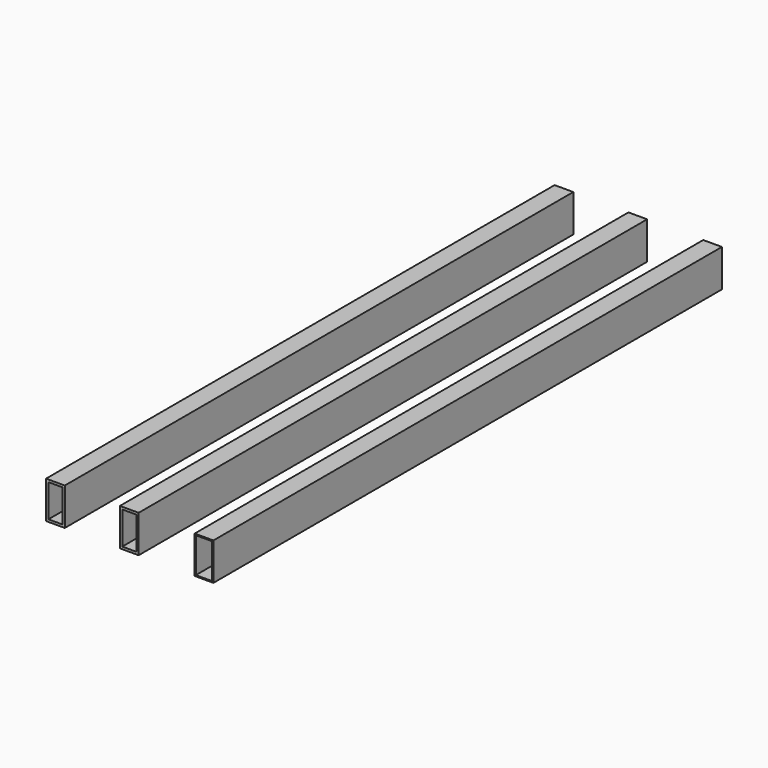
from build123d import *

# Parameters (mm, degrees)
REFINELINEAREXTRUDE001_W         = 50.8
REFINELINEAREXTRUDE001_H         = 25.4
REFINELINEAREXTRUDE001_W_2       = 44.45
REFINELINEAREXTRUDE001_H_2       = 19.05
LINEAREXTRUDE001_DEPTH           = 863.6
LINEAREXTRUDE001_PLACEMENT_ANGLE = 90
REFINELINEAREXTRUDE002_W         = 50.8
REFINELINEAREXTRUDE002_H         = 25.4
REFINELINEAREXTRUDE002_W_2       = 47.625
REFINELINEAREXTRUDE002_H_2       = 22.225
LINEAREXTRUDE002_DEPTH           = 863.6
LINEAREXTRUDE002_PLACEMENT_ANGLE = 90
REFINELINEAREXTRUDE_W            = 50.8
REFINELINEAREXTRUDE_H            = 25.4
REFINELINEAREXTRUDE_W_2          = 44.45
REFINELINEAREXTRUDE_H_2          = 19.05
LINEAREXTRUDE_DEPTH              = 863.6
LINEAREXTRUDE_PLACEMENT_ANGLE    = 90


with BuildPart() as linearextrude001:
    # RefineLinearExtrude001 → LinearExtrude001 (new body)
    with BuildSketch(Plane(origin=(0, 0, 0), x_dir=(0, 1, 0), z_dir=(0, 0, 1))):
        Rectangle(REFINELINEAREXTRUDE001_W, REFINELINEAREXTRUDE001_H)
        Rectangle(REFINELINEAREXTRUDE001_W_2, REFINELINEAREXTRUDE001_H_2, mode=Mode.SUBTRACT)
    extrude(amount=LINEAREXTRUDE001_DEPTH)


with BuildPart() as linearextrude001_1:
    # LinearExtrude001 placement: moved
    add(linearextrude001.part.moved(Location((190.5, 25.4, 25.4))).rotate(Axis((190.5, 25.4, 25.4), (-1, 0, 0)), LINEAREXTRUDE001_PLACEMENT_ANGLE))


with BuildPart() as linearextrude002:
    # RefineLinearExtrude002 → LinearExtrude002 (new body)
    with BuildSketch(Plane(origin=(0, 0, 0), x_dir=(0, 1, 0), z_dir=(0, 0, 1))):
        Rectangle(REFINELINEAREXTRUDE002_W, REFINELINEAREXTRUDE002_H)
        Rectangle(REFINELINEAREXTRUDE002_W_2, REFINELINEAREXTRUDE002_H_2, mode=Mode.SUBTRACT)
    extrude(amount=LINEAREXTRUDE002_DEPTH)


with BuildPart() as linearextrude002_1:
    # LinearExtrude002 placement: moved
    add(linearextrude002.part.moved(Location((292.1, 25.4, 25.4))).rotate(Axis((292.1, 25.4, 25.4), (-1, 0, 0)), LINEAREXTRUDE002_PLACEMENT_ANGLE))


with BuildPart() as group:
    # RefineLinearExtrude → LinearExtrude (new body)
    with BuildSketch(Plane(origin=(0, 0, 0), x_dir=(0, 1, 0), z_dir=(0, 0, 1))):
        Rectangle(REFINELINEAREXTRUDE_W, REFINELINEAREXTRUDE_H)
        Rectangle(REFINELINEAREXTRUDE_W_2, REFINELINEAREXTRUDE_H_2, mode=Mode.SUBTRACT)
    extrude(amount=LINEAREXTRUDE_DEPTH)


with BuildPart() as group_1:
    # LinearExtrude placement: moved
    add(group.part.moved(Location((90.17, 25.4, 25.4))).rotate(Axis((90.17, 25.4, 25.4), (-1, 0, 0)), LINEAREXTRUDE_PLACEMENT_ANGLE))

    # Group: union LinearExtrude001, LinearExtrude002
    add(linearextrude001_1.part)
    add(linearextrude002_1.part)


solid = group_1.part
